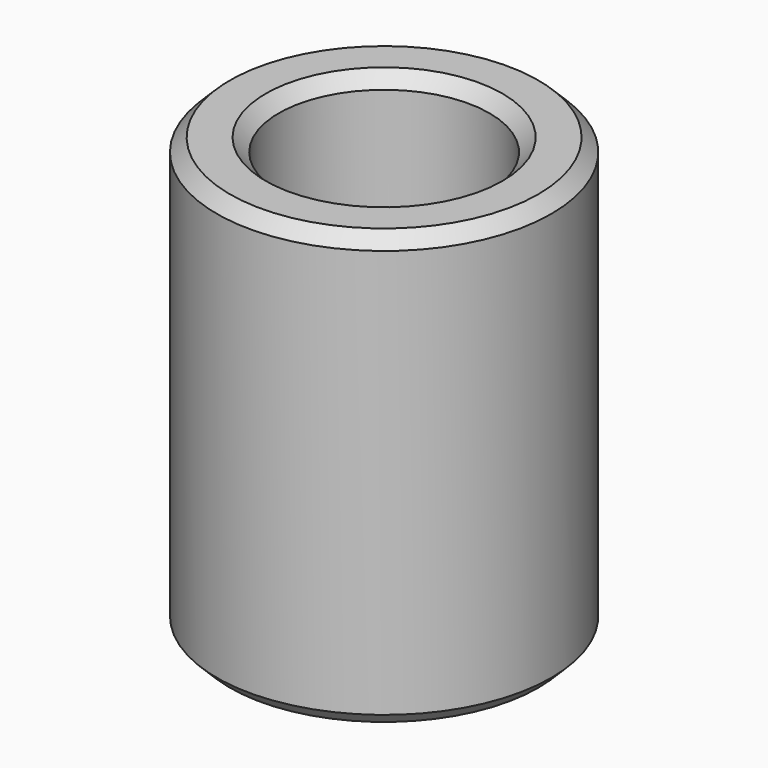
from build123d import *

# Parameters (mm, degrees)
F0_R     = 9.779
F1_DEPTH = 25.4
F2_SIZE  = 0.762
F3_R     = 6.1595
F4_DEPTH = 19.05
F5_SIZE  = 0.762


with BuildPart() as f1:
    # F0 (on Top) → F1 (new body)
    with BuildSketch(Plane.XY):
        Circle(F0_R)
    extrude(amount=F1_DEPTH)

    # F2
    f2_edges = [f1.edges().sort_by_distance(p)[0] for p in [
        (-9.779, 0, 0),
    ]]
    chamfer(f2_edges, length=F2_SIZE)

    # F3 (on face) → F4 (cut)
    with BuildSketch(Plane.XY.offset(25.4)):
        Circle(F3_R)
    extrude(amount=-F4_DEPTH, mode=Mode.SUBTRACT)

    # F5
    f5_edges = [f1.edges().sort_by_distance(p)[0] for p in [
        (-9.779, 0, 25.4),
        (-6.1595, 0, 25.4),
    ]]
    chamfer(f5_edges, length=F5_SIZE)


solid = f1.part
